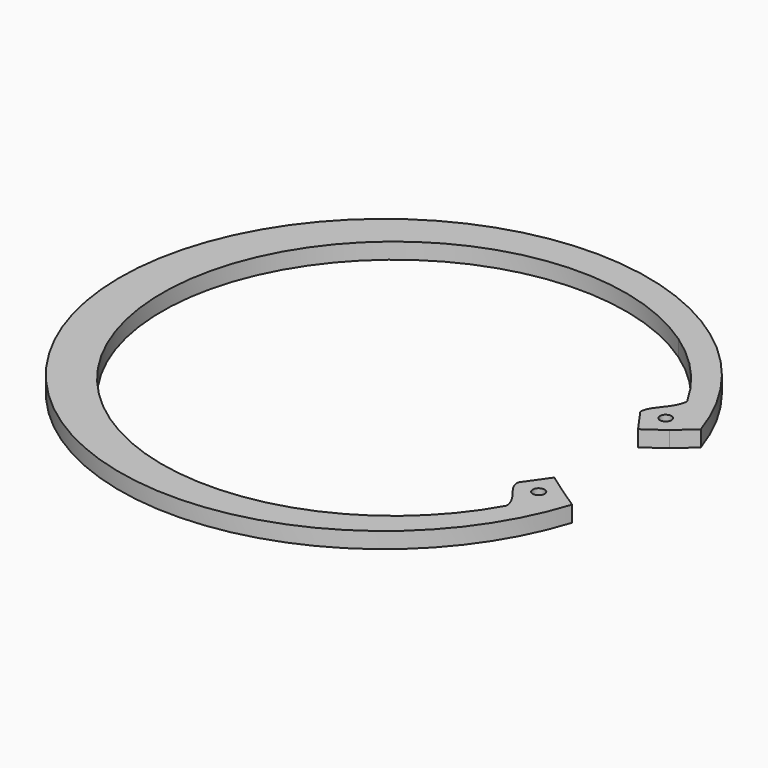
from build123d import *

# Parameters (mm, degrees)
F0_R     = 33
F1_DEPTH = 2
F3_DEPTH = 2.001
F5_DEPTH = 2.0010001
F6_R     = 0.7224908552
F6_R_2   = 0.7400457382
F7_DEPTH = 2.0010001


with BuildPart() as f1:
    # F0 (on Top) → F1 (new body)
    with BuildSketch(Plane.XY):
        Circle(F0_R)
    extrude(amount=F1_DEPTH)

    # F2 (on face) → F3 (cut, through all)
    with BuildSketch(Plane.XY.offset(2)):
        with BuildLine():
            ThreePointArc((26.6176071003, 14.1071927868), (22.716020238, 19.5321055237), (17.6763167755, 23.9199805513))
            ThreePointArc((17.6763167755, 23.9199805513), (-27.7198574863, 0), (17.6763167755, -23.9199805513))
            ThreePointArc((17.6763167755, -23.9199805513), (22.716020238, -19.5321055237), (26.6176071003, -14.1071927868))
            add(Edge.make_bspline(
                [(24.4190643431, -9.5471604607), (24.2953095849, -11.0698888291), (26.490861777, -12.1669797839), (26.6176071003, -14.1071927868)],
                knots=[0, 0, 0, 0, 0.3817701134, 0.3817701134, 0.3817701134, 0.3817701134], degree=3))
            Line((24.4190643431, -9.5471604607), (26.5364420049, -6.540675446))
            Line((26.5364420049, -6.540675446), (29.0613579283, -8.3188983701))
            ThreePointArc((29.0613579283, -8.3188983701), (29.97382864, -4.203852577), (30.2801425137, 0))
            ThreePointArc((30.2801425137, 0), (29.97382864, 4.203852577), (29.0613579283, 8.3188983701))
            Line((29.0613579283, 8.3188983701), (26.5364420049, 6.540675446))
            Line((26.5364420049, 6.540675446), (24.4190643431, 9.5471604607))
            add(Edge.make_bspline(
                [(24.4190643431, 9.5471604607), (24.2953095849, 11.0698888291), (26.490861777, 12.1669797839), (26.6176071003, 14.1071927868)],
                knots=[0, 0, 0, 0, 0.3817701134, 0.3817701134, 0.3817701134, 0.3817701134], degree=3))
        make_face()
    extrude(amount=-F3_DEPTH, mode=Mode.SUBTRACT)

    # F4 (on face) → F5 (cut, through all)
    with BuildSketch(Plane.XY.offset(2)):
        Polygon((31.331487748, 10.3603993888), (29.0613579283, 8.3188983701), (29.0613579283, -8.3188983701), (31.4715985336, -9.9266553149), (41.9540777802, 0), align=None)
    extrude(amount=-F5_DEPTH, mode=Mode.SUBTRACT)

    # F6 (on face) → F7 (cut, through all)
    with BuildSketch(Plane.XY.offset(2)):
        with Locations((27.1840710193, 10.0614046678)):
            Circle(F6_R)
        with Locations((27.2254403681, -9.8374607041)):
            Circle(F6_R_2)
    extrude(amount=-F7_DEPTH, mode=Mode.SUBTRACT)


solid = f1.part
